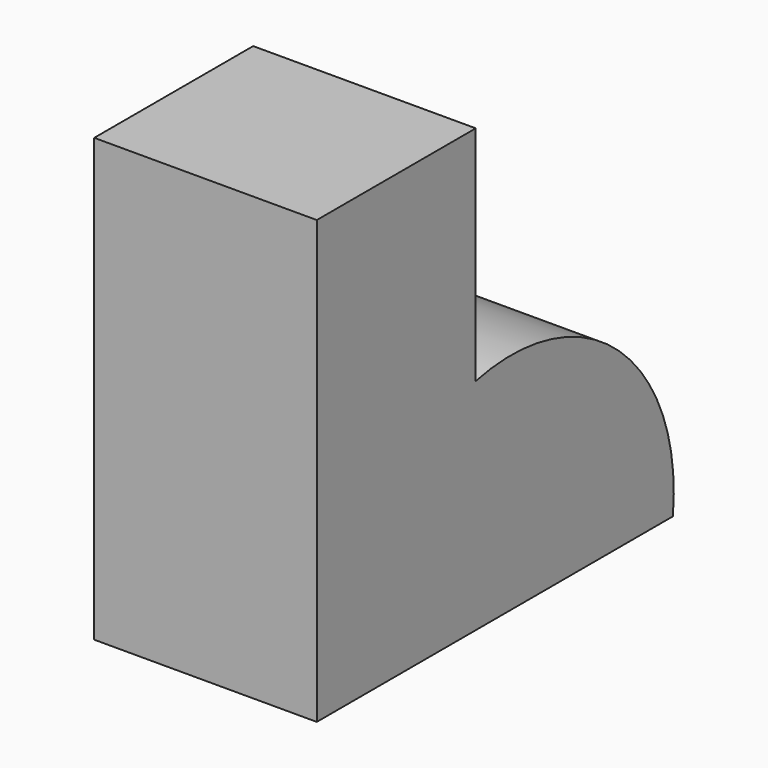
from build123d import *

# Parameters (mm, degrees)
F1_DEPTH = 25.4


with BuildPart() as f1:
    # F0 (on Right) → F1 (new body)
    with BuildSketch(Plane.YZ):
        with BuildLine():
            Line((0, 53.467304), (-22.672768, 53.467304))
            Line((-22.672768, 53.467304), (-22.672768, 3.045057))
            Line((-22.672768, 3.045057), (28.127232, 3.045057))
            ThreePointArc((28.127232, 3.045057), (20.474319, 22.76238), (0, 28.067304))
            Line((0, 28.067304), (0, 53.467304))
        make_face()
    extrude(amount=F1_DEPTH)


solid = f1.part
